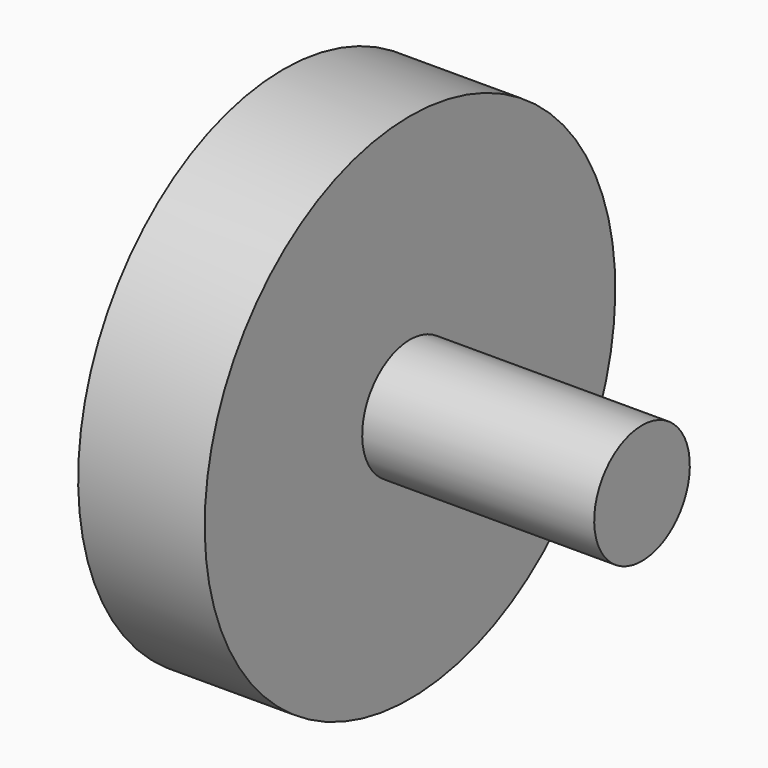
from build123d import *

# Parameters (mm, degrees)
F0_W = 30.0181433558
F0_H = 7.7319457196


with BuildPart() as f1:
    # F0 (on Front) → F1 (revolve)
    with BuildSketch(Plane.XZ):
        Polygon((-97.5589603186, 33.2018844783), (-113.9324903488, 33.2018844783), (-113.9512211084, 0), (-97.5589603186, 0), (-97.5589603186, 7.7319457196), align=None)
        with Locations((-82.5498886406, 3.8659728598)):
            Rectangle(F0_W, F0_H)
    revolve(axis=Axis((-90.7460190356, 0, 0), (-1, 0, 0)))


solid = f1.part
